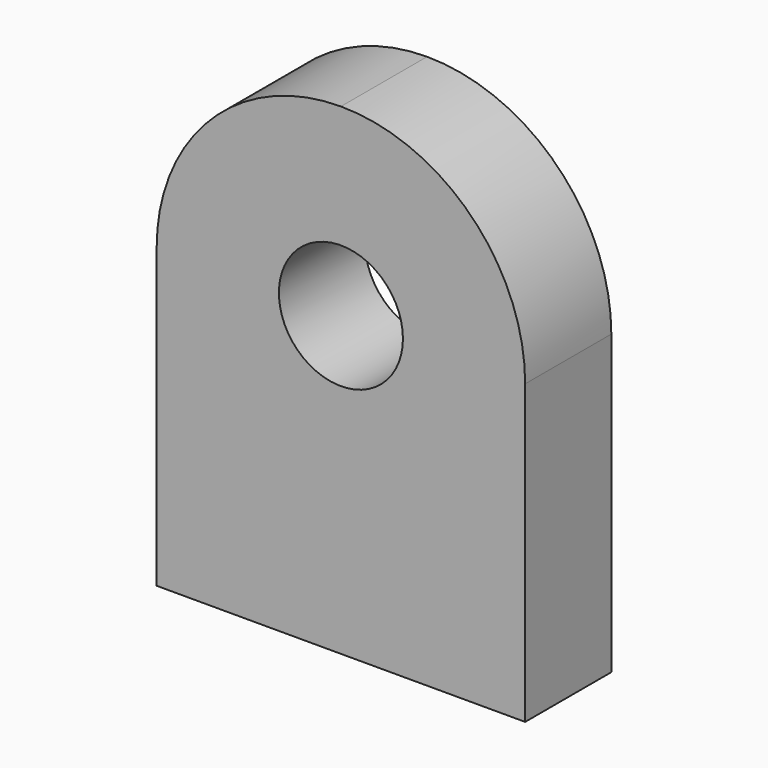
from build123d import *

# Parameters (mm, degrees)
F0_R     = 11.1125
F1_DEPTH = 19.304


with BuildPart() as f1:
    # F0 (on Front) → F1 (new body)
    with BuildSketch(Plane.XZ):
        with BuildLine():
            Line((-9.044249, 2.737979), (-9.044249, -50.602021))
            Line((-9.044249, -50.602021), (56.995751, -50.602021))
            Line((56.995751, -50.602021), (56.995751, 2.737979))
            ThreePointArc((56.995751, 2.737979), (47.324417, 26.086645), (23.975751, 35.757979))
            ThreePointArc((23.975751, 35.757979), (0.627085, 26.086645), (-9.044249, 2.737979))
        make_face()
        with Locations((23.975751, 2.737979)):
            Circle(F0_R, mode=Mode.SUBTRACT)
    extrude(amount=F1_DEPTH)


solid = f1.part
